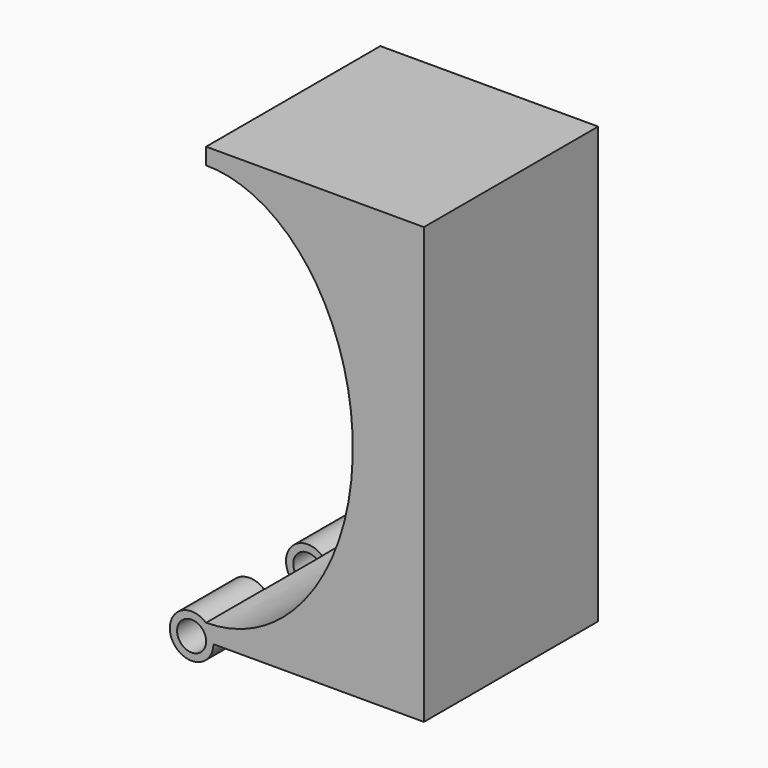
from build123d import *

# Parameters (mm, degrees)
F1_DEPTH = 75
F3_DEPTH = 75
F4_R     = 5
F5_DEPTH = 75
F6_W     = 25
F6_H     = 50
F7_DEPTH = 94.6


with BuildPart() as f1:
    # F0 (on Front) → F1 (new body)
    with BuildSketch(Plane.XZ):
        with BuildLine():
            Line((94.518671182, -36.2781172018), (169.518671182, -36.2781172018))
            Line((169.518671182, -36.2781172018), (169.518671182, 113.7218827982))
            Line((169.518671182, 113.7218827982), (94.518671182, 113.7218827982))
            Line((94.518671182, 113.7218827982), (94.518671182, 108.0480078836))
            add(Edge.make_bspline(
                [(94.518671182, -30.6042422872), (145.0398997052, -30.6042422872), (145.0398997052, 38.7218827982), (145.0398997052, 108.0480078835), (94.518671182, 108.0480078836)],
                knots=[0, 0, 0, 1.5707963268, 1.5707963268, 3.1415926536, 3.1415926536, 3.1415926536], degree=2, weights=[1, 0.7071067812, 1, 0.7071067812, 1]))
            Line((94.518671182, -30.6042422872), (94.518671182, -36.2781172018))
        make_face()
    extrude(amount=F1_DEPTH)

    # F2 (on face) → F3 (join)
    with BuildSketch(Plane.XZ.offset(75)):
        with BuildLine():
            ThreePointArc((94.518671182, -30.6879472581), (82.6721392132, -39.3399793803), (97.018671182, -36.2781172018))
            Line((97.018671182, -36.2781172018), (94.518671182, -36.2781172018))
            Line((94.518671182, -36.2781172018), (94.518671182, -30.6879472581))
        make_face()
    extrude(amount=-F3_DEPTH)

    # F4 (on face) → F5 (cut)
    with BuildSketch(Plane.XZ.offset(75)):
        with Locations((89.518671182, -36.2781172018)):
            Circle(F4_R)
    extrude(amount=-F5_DEPTH, mode=Mode.SUBTRACT)

    # F6 (on Right) → F7 (cut)
    with BuildSketch(Plane.YZ):
        with Locations((-37.5, -41.2179514766)):
            Rectangle(F6_W, F6_H)
    extrude(amount=F7_DEPTH, mode=Mode.SUBTRACT)


solid = f1.part
